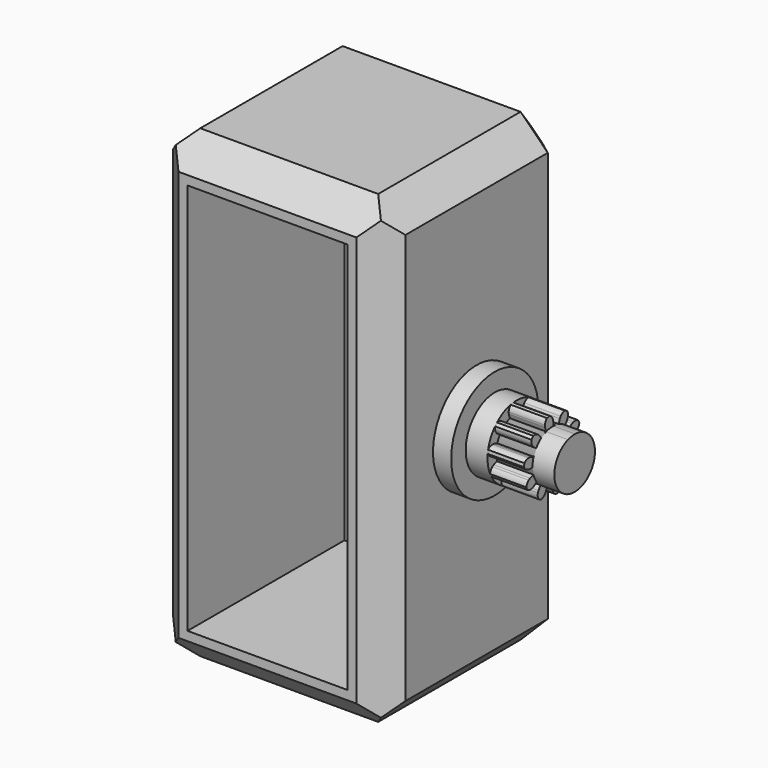
from build123d import *

# Parameters (mm, degrees)
F0_W      = 44
F0_H      = 108
F1_DEPTH  = 10
F0_W_2    = 64
F0_H_2    = 128
F2_DEPTH  = 64
F3_SIZE   = 7.5
F4_SIZE   = 7.5
F6_R      = 15
F6_R_2    = 10
F7_DEPTH  = 5
F8_DEPTH  = 11
F9_R      = 15
F9_R_2    = 10
F10_DEPTH = 5
F11_DEPTH = 11
F13_DEPTH = 10
F14_COUNT = 10
F16_DEPTH = 6


with BuildPart() as f1:
    # F0 (on Front) → F1 (new body)
    with BuildSketch(Plane.XZ):
        Rectangle(F0_W, F0_H)
    extrude(amount=F1_DEPTH)

    # F0 (on Front) → F2 (join)
    with BuildSketch(Plane.XZ):
        Rectangle(F0_W_2, F0_H_2)
        Rectangle(F0_W, F0_H, mode=Mode.SUBTRACT)
    extrude(amount=F2_DEPTH)

    # F3
    f3_edges = [f1.edges().sort_by_distance(p)[0] for p in [
        (32, -32, 64),
        (-32, -32, 64),
        (32, -32, -64),
        (-32, -32, -64),
    ]]
    chamfer(f3_edges, length=F3_SIZE)

    # F4 (call 1 of 5: OpenCascade refuses the feature's edges together)
    f4_edges = [f1.edges().sort_by_distance(p)[0] for p in [
        (32, 0, 0),
        (-32, 0, 0),
        (0, 0, 64),
        (28.25, 0, -60.25),
        (28.25, 0, 60.25),
        (0, 0, -64),
        (-28.25, 0, -60.25),
        (-28.25, 0, 60.25),
    ]]
    chamfer(f4_edges, length=F4_SIZE)

    # F4#2 (call 2 of 5)
    f4_2_edges = [f1.edges().sort_by_distance(p)[0] for p in [
        (-32, -64, 0),
    ]]
    chamfer(f4_2_edges, length=F4_SIZE)

    # F4#3 (call 3 of 5)
    f4_3_edges = [f1.edges().sort_by_distance(p)[0] for p in [
        (0, -64, -64),
    ]]
    chamfer(f4_3_edges, length=F4_SIZE)

    # F4#4 (call 4 of 5)
    f4_4_edges = [f1.edges().sort_by_distance(p)[0] for p in [
        (32, -64, 0),
    ]]
    chamfer(f4_4_edges, length=F4_SIZE)

    # F4#5 (call 5 of 5)
    f4_5_edges = [f1.edges().sort_by_distance(p)[0] for p in [
        (0, -64, 64),
    ]]
    chamfer(f4_5_edges, length=F4_SIZE)


with BuildPart() as f1_1:
    # F5: moved
    add(f1.part.moved(Location((0, 32, 0))))

    # F9 (on face) → F10 (join)
    with BuildSketch(Plane(origin=(-32, 0, 0), x_dir=(0, -1, 0), z_dir=(-1, 0, 0))):
        Circle(F9_R)
        Circle(F9_R_2, mode=Mode.SUBTRACT)
    extrude(amount=F10_DEPTH)

    # F11 (add): a face of the model
    f11_faces = [f1_1.faces().sort_by_distance(p)[0] for p in [
        (-32, 0, 0),
    ]]
    extrude(f11_faces, amount=F11_DEPTH)


with BuildPart() as f7:
    # F6 (on face) → F7 (new body)
    with BuildSketch(Plane.YZ.offset(32)):
        Circle(F6_R)
        Circle(F6_R_2, mode=Mode.SUBTRACT)
        Circle(F6_R_2)
    extrude(amount=F7_DEPTH)


with BuildPart() as f8:
    # F6 (on face) → F8 (new body)
    with BuildSketch(Plane.YZ.offset(32)):
        Circle(F6_R_2)
    extrude(amount=F8_DEPTH)


with BuildPart() as f13:
    # F12 (on face) → F13 (new body)
    with BuildSketch(Plane.YZ.offset(43)):
        with BuildLine():
            ThreePointArc((-2.2881053101, 6.6154798836), (-4.06098897, -5.7016110517), (7, 0))
            ThreePointArc((7, 0), (4.9961361214, 4.9029199317), (0.1318217552, 6.9987586774))
            ThreePointArc((0.1318217552, 6.9987586774), (-1.0950412553, 6.9138183842), (-2.2881053101, 6.6154798836))
        make_face()
        with BuildLine():
            ThreePointArc((-2.2881053101, 6.6154798836), (-1.0950412553, 6.9138183842), (0.1318217552, 6.9987586774))
            ThreePointArc((0.1318217552, 6.9987586774), (0.1582262374, 7.6100061724), (0.1318217552, 8.2212536674))
            ThreePointArc((0.1318217552, 8.2212536674), (0.0802716225, 8.4892071112), (0, 8.75))
            ThreePointArc((0, 8.75), (-0.4391169184, 9.4477010662), (-1.1009547002, 9.9392101672))
            ThreePointArc((-1.1009547002, 9.9392101672), (-1.5643446504, 9.876883406), (-2.0243147106, 9.7929643088))
            ThreePointArc((-2.0243147106, 9.7929643088), (-2.5018751805, 9.1209922533), (-2.7038987008, 8.3217445176))
            ThreePointArc((-2.7038987008, 8.3217445176), (-2.6996521158, 8.0489104457), (-2.6658770375, 7.7781417099))
            ThreePointArc((-2.6658770375, 7.7781417099), (-2.5021033287, 7.188651363), (-2.2881053101, 6.6154798836))
        make_face()
    extrude(amount=F13_DEPTH)


with BuildPart() as f14_1:
    # F14: instance of F13
    add(f13.part.rotate(Axis((43, 0, 0), (-1, 0, 0)), 1 * 360 / F14_COUNT))


with BuildPart() as f14_2:
    # F14: instance of F13
    add(f13.part.rotate(Axis((43, 0, 0), (-1, 0, 0)), 2 * 360 / F14_COUNT))


with BuildPart() as f14_3:
    # F14: instance of F13
    add(f13.part.rotate(Axis((43, 0, 0), (-1, 0, 0)), 3 * 360 / F14_COUNT))


with BuildPart() as f14_4:
    # F14: instance of F13
    add(f13.part.rotate(Axis((43, 0, 0), (-1, 0, 0)), 4 * 360 / F14_COUNT))


with BuildPart() as f14_5:
    # F14: instance of F13
    add(f13.part.rotate(Axis((43, 0, 0), (-1, 0, 0)), 5 * 360 / F14_COUNT))


with BuildPart() as f14_6:
    # F14: instance of F13
    add(f13.part.rotate(Axis((43, 0, 0), (-1, 0, 0)), 6 * 360 / F14_COUNT))


with BuildPart() as f14_7:
    # F14: instance of F13
    add(f13.part.rotate(Axis((43, 0, 0), (-1, 0, 0)), 7 * 360 / F14_COUNT))


with BuildPart() as f14_8:
    # F14: instance of F13
    add(f13.part.rotate(Axis((43, 0, 0), (-1, 0, 0)), 8 * 360 / F14_COUNT))


with BuildPart() as f14_9:
    # F14: instance of F13
    add(f13.part.rotate(Axis((43, 0, 0), (-1, 0, 0)), 9 * 360 / F14_COUNT))


with BuildPart() as f16:
    # F15 (on face) → F16 (new body)
    with BuildSketch(Plane.YZ.offset(53)):
        with BuildLine():
            ThreePointArc((-2.2881053101, 6.6154798836), (-4.06098897, -5.7016110517), (7, 0))
            ThreePointArc((7, 0), (4.9961361214, 4.9029199317), (0.1318217552, 6.9987586774))
            ThreePointArc((0.1318217552, 6.9987586774), (-1.0950412553, 6.9138183842), (-2.2881053101, 6.6154798836))
        make_face()
    extrude(amount=F16_DEPTH)


solid = Compound([f1_1.part, f7.part, f8.part, f13.part, f14_1.part, f14_2.part, f14_3.part, f14_4.part, f14_5.part, f14_6.part, f14_7.part, f14_8.part, f14_9.part, f16.part])
